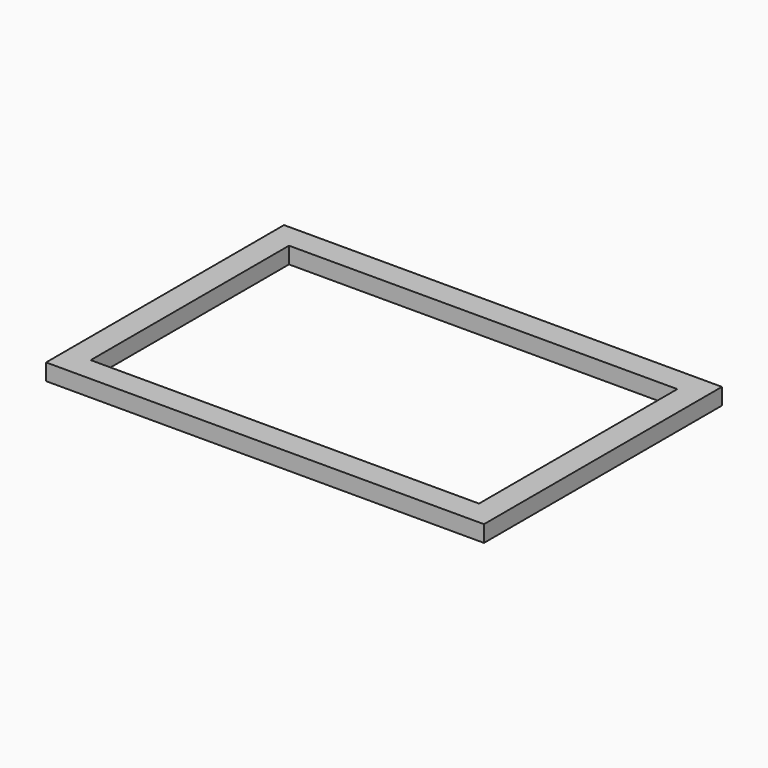
from build123d import *

# Parameters (mm, degrees)
BOX013_W     = 23.5
BOX013_H     = 15
BOX013_DEPTH = 1
BOX012_W     = 26.5
BOX012_H     = 18
BOX012_DEPTH = 1


with BuildPart() as cube013:
    # Box013 → Box013 (new body)
    with BuildSketch(Plane(origin=(14.5, -51.5, 0), x_dir=(1, 0, 0), z_dir=(0, 0, 1))):
        with Locations((11.75, 7.5)):
            Rectangle(BOX013_W, BOX013_H)
    extrude(amount=BOX013_DEPTH)


with BuildPart() as cut007002001007002:
    # Box012 → Box012 (new body)
    with BuildSketch(Plane(origin=(13, -53, 0), x_dir=(1, 0, 0), z_dir=(0, 0, 1))):
        with Locations((13.25, 9)):
            Rectangle(BOX012_W, BOX012_H)
    extrude(amount=BOX012_DEPTH)

    # Cut007002001007002: cut Cube013
    add(cube013.part, mode=Mode.SUBTRACT)


with BuildPart() as cut007002001007002_1:
    # Cut007002001007002 placement: moved
    add(cut007002001007002.part.moved(Location((0, 0, -1))))


solid = cut007002001007002_1.part
